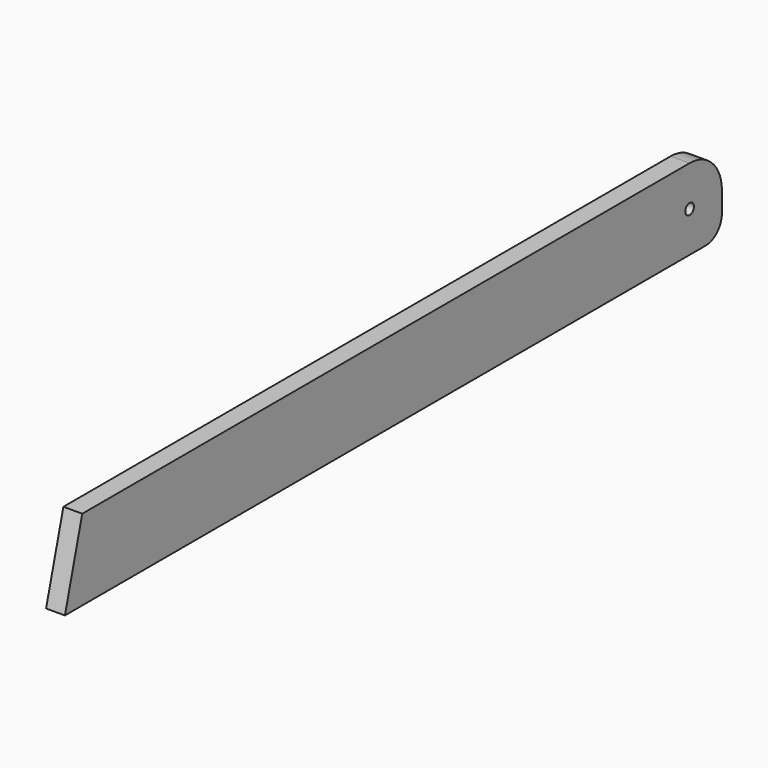
from build123d import *

# Parameters (mm, degrees)
F1_DEPTH = 14
F2_D     = 8


with BuildPart() as f1:
    # F0 (on Right) → F1 (new body)
    with BuildSketch(Plane.YZ):
        with BuildLine():
            Line((275, 30), (-288.923048, 30))
            Line((-288.923048, 30), (-305, -30))
            Line((-305, -30), (290, -30))
            ThreePointArc((290, -30), (300.606602, -25.606602), (305, -15))
            Line((305, -15), (305, 0))
            ThreePointArc((305, 0), (296.213203, 21.213203), (275, 30))
        make_face()
    extrude(amount=F1_DEPTH)

    # F2 (through all)
    with Locations(Plane(origin=(0, 0, 0), x_dir=(0, 1, 0), z_dir=(-1, 0, 0))):
        with Locations((275, 0)):
            Hole(F2_D / 2)


solid = f1.part
